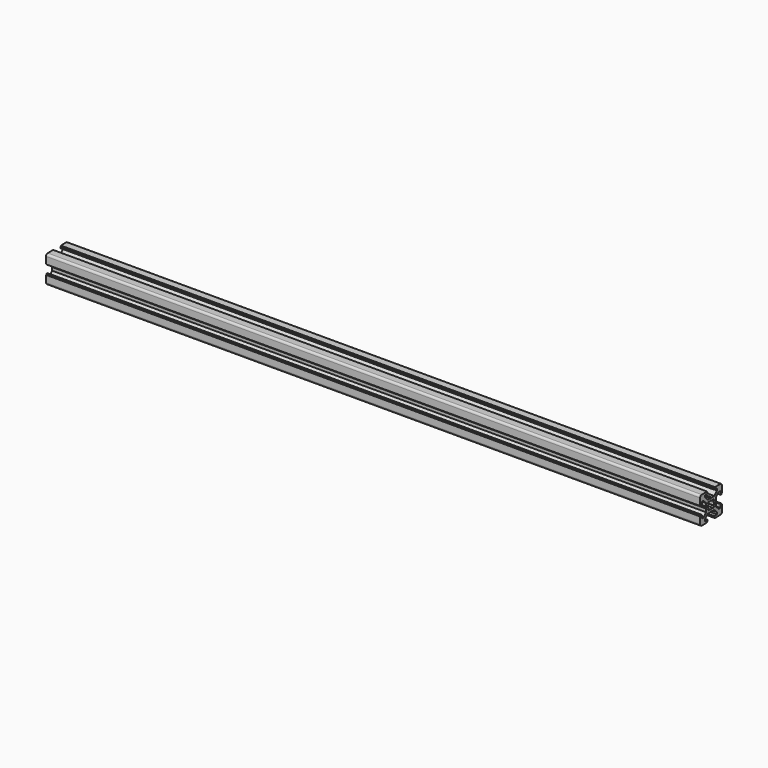
from build123d import *

# Parameters (mm, degrees)
PAD_DEPTH = 480


with BuildPart() as part:
    # Sketch → Pad (new body)
    with BuildSketch(Plane.YZ):
        with BuildLine():
            Line((0, 4.1), (0.65, 4.5))
            Line((0.65, 4.5), (3, 4.5))
            Line((3, 4.5), (5.5, 7))
            Line((5.5, 7), (5.5, 8.5))
            Line((5.5, 8.5), (3, 8.5))
            Line((3, 8.5), (3, 9.5))
            Line((3, 9.5), (3.5, 9.5))
            Line((3.5, 9.5), (3.5, 10))
            Line((3.5, 10), (8.5, 10))
            ThreePointArc((10, 8.5), (9.56066, 9.56066), (8.5, 10))
            Line((10, 8.5), (10, 3.5))
            Line((10, 3.5), (9.5, 3.5))
            Line((9.5, 3.5), (9.5, 3))
            Line((9.5, 3), (8.5, 3))
            Line((8.5, 3), (8.5, 5.5))
            Line((8.5, 5.5), (7, 5.5))
            Line((7, 5.5), (4.5, 3))
            Line((4.5, 3), (4.5, 0.65))
            Line((4.5, 0.65), (4.1, 0))
            Line((4.5, -0.65), (4.1, 0))
            Line((4.5, -3), (4.5, -0.65))
            Line((7, -5.5), (4.5, -3))
            Line((8.5, -5.5), (7, -5.5))
            Line((8.5, -3), (8.5, -5.5))
            Line((9.5, -3), (8.5, -3))
            Line((9.5, -3.5), (9.5, -3))
            Line((10, -3.5), (9.5, -3.5))
            Line((10, -8.5), (10, -3.5))
            ThreePointArc((8.5, -10), (9.56066, -9.56066), (10, -8.5))
            Line((3.5, -10), (8.5, -10))
            Line((3.5, -9.5), (3.5, -10))
            Line((3, -9.5), (3.5, -9.5))
            Line((3, -8.5), (3, -9.5))
            Line((5.5, -8.5), (3, -8.5))
            Line((5.5, -7), (5.5, -8.5))
            Line((3, -4.5), (5.5, -7))
            Line((0.65, -4.5), (3, -4.5))
            Line((0, -4.1), (0.65, -4.5))
            Line((0, -4.1), (-0.65, -4.5))
            Line((-0.65, -4.5), (-3, -4.5))
            Line((-3, -4.5), (-5.5, -7))
            Line((-5.5, -7), (-5.5, -8.5))
            Line((-5.5, -8.5), (-3, -8.5))
            Line((-3, -8.5), (-3, -9.5))
            Line((-3, -9.5), (-3.5, -9.5))
            Line((-3.5, -9.5), (-3.5, -10))
            Line((-3.5, -10), (-8.5, -10))
            ThreePointArc((-10, -8.5), (-9.56066, -9.56066), (-8.5, -10))
            Line((-10, -8.5), (-10, -3.5))
            Line((-10, -3.5), (-9.5, -3.5))
            Line((-9.5, -3.5), (-9.5, -3))
            Line((-9.5, -3), (-8.5, -3))
            Line((-8.5, -3), (-8.5, -5.5))
            Line((-8.5, -5.5), (-7, -5.5))
            Line((-7, -5.5), (-4.5, -3))
            Line((-4.5, -3), (-4.5, -0.65))
            Line((-4.5, -0.65), (-4.1, 0))
            Line((-4.5, 0.65), (-4.1, 0))
            Line((-4.5, 3), (-4.5, 0.65))
            Line((-7, 5.5), (-4.5, 3))
            Line((-8.5, 5.5), (-7, 5.5))
            Line((-8.5, 3), (-8.5, 5.5))
            Line((-9.5, 3), (-8.5, 3))
            Line((-9.5, 3.5), (-9.5, 3))
            Line((-10, 3.5), (-9.5, 3.5))
            Line((-10, 8.5), (-10, 3.5))
            ThreePointArc((-8.5, 10), (-9.56066, 9.56066), (-10, 8.5))
            Line((-3.5, 10), (-8.5, 10))
            Line((-3.5, 9.5), (-3.5, 10))
            Line((-3, 9.5), (-3.5, 9.5))
            Line((-3, 8.5), (-3, 9.5))
            Line((-5.5, 8.5), (-3, 8.5))
            Line((-5.5, 7), (-5.5, 8.5))
            Line((-3, 4.5), (-5.5, 7))
            Line((-0.65, 4.5), (-3, 4.5))
            Line((0, 4.1), (-0.65, 4.5))
        make_face()
        with BuildLine():
            Line((1.340499, 2.401159), (1.923239, 2.983899))
            Line((1.923239, 2.983899), (2.983899, 1.923239))
            Line((2.983899, 1.923239), (2.401159, 1.340499))
            ThreePointArc((2.75, 0), (2.661361, 0.692573), (2.401159, 1.340499))
            ThreePointArc((2.401164, -1.34049), (2.661362, -0.692568), (2.75, 0))
            Line((2.983904, -1.92323), (2.401164, -1.34049))
            Line((1.923247, -2.983894), (2.983904, -1.92323))
            Line((1.340507, -2.401154), (1.923247, -2.983894))
            ThreePointArc((0, -2.75), (0.692577, -2.66136), (1.340507, -2.401154))
            ThreePointArc((-1.340507, -2.401154), (-0.692577, -2.66136), (0, -2.75))
            Line((-1.340507, -2.401154), (-1.923247, -2.983894))
            Line((-1.923247, -2.983894), (-2.983904, -1.92323))
            Line((-2.983904, -1.92323), (-2.401164, -1.34049))
            ThreePointArc((-2.75, 0), (-2.661362, -0.692568), (-2.401164, -1.34049))
            ThreePointArc((-2.401159, 1.340499), (-2.661361, 0.692572), (-2.75, 0))
            Line((-2.983899, 1.923239), (-2.401159, 1.340499))
            Line((-1.923239, 2.983899), (-2.983899, 1.923239))
            Line((-1.340499, 2.401159), (-1.923239, 2.983899))
            ThreePointArc((0, 2.75), (-0.692573, 2.661361), (-1.340499, 2.401159))
            ThreePointArc((1.340499, 2.401159), (0.692573, 2.661361), (0, 2.75))
        make_face(mode=Mode.SUBTRACT)
    extrude(amount=PAD_DEPTH)


solid = part.part
